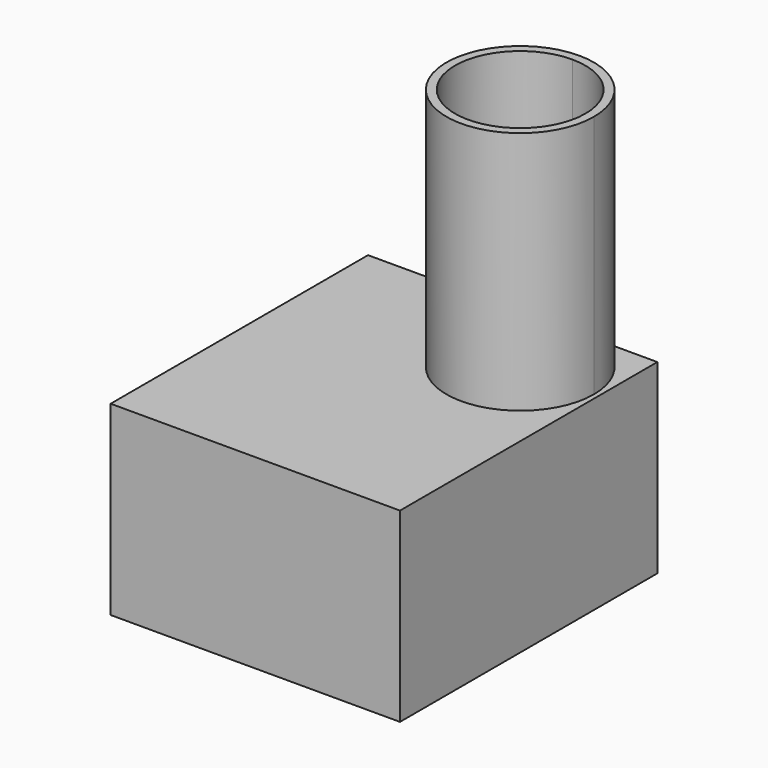
from build123d import *

# Parameters (mm, degrees)
F1_W     = 86.309158
F1_H     = 95.964536
F2_DEPTH = 55.499502
F4_DEPTH = 72.892174
F5_T     = -2.54


with BuildPart() as f2:
    # F1 (on face) → F2 (new body)
    with BuildSketch(Plane.XY):
        Rectangle(F1_W, F1_H)
    extrude(amount=F2_DEPTH)


with BuildPart() as f4:
    # F3 (on face) → F4 (new body)
    with BuildSketch(Plane.XY.offset(55.499502)):
        with BuildLine():
            ThreePointArc((19.822143, 47.982268), (4.28026, 10.460842), (41.801685, 26.002726))
            ThreePointArc((41.801685, 26.002726), (35.364027, 41.544609), (19.822143, 47.982268))
        make_face()
    extrude(amount=F4_DEPTH)

    # F5
    f5_openings = [f4.faces().sort_by_distance(p)[0] for p in [
        (19.822143, 26.002726, 128.391676),
    ]]
    offset(amount=F5_T, openings=f5_openings)


solid = Compound([f2.part, f4.part])
